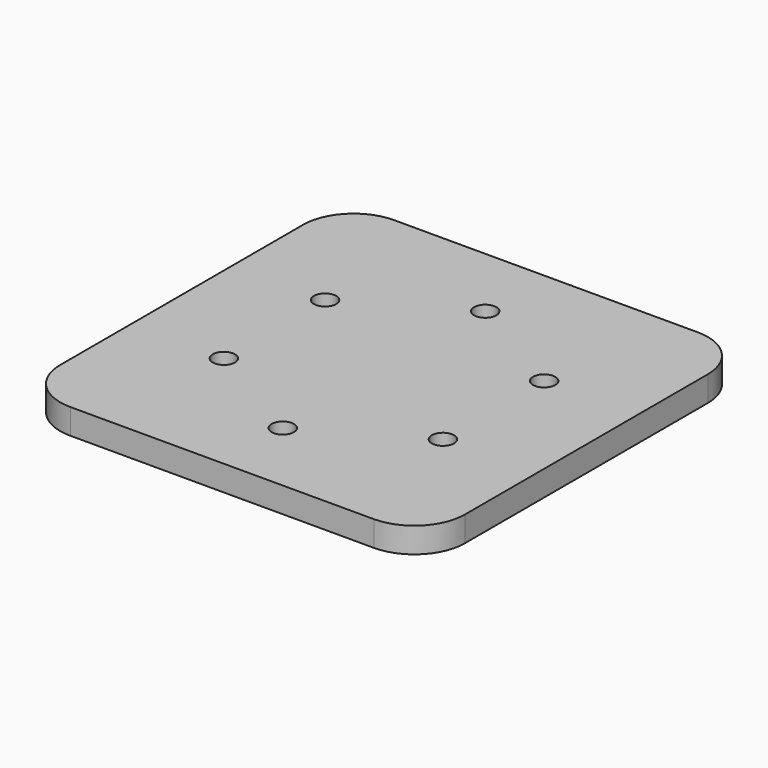
from build123d import *

# Parameters (mm, degrees)
F0_W     = 80
F0_H     = 80
F1_DEPTH = 5
F3_D     = 4.4
F4_R     = 10


with BuildPart() as f1:
    # F0 (on Top) → F1 (new body)
    with BuildSketch(Plane.XY):
        Rectangle(F0_W, F0_H)
    extrude(amount=F1_DEPTH)

    # F3 (through all)
    with Locations(Plane.XY.offset(5)):
        with Locations((0, 25), (21.650635, 12.5), (21.650635, -12.5), (0, -25), (-21.650635, -12.5), (-21.650635, 12.5)):
            Hole(F3_D / 2)

    # F4
    f4_edges = [f1.edges().sort_by_distance(p)[0] for p in [
        (40, -40, 2.5),
        (40, 40, 2.5),
        (-40, -40, 2.5),
        (-40, 40, 2.5),
    ]]
    fillet(f4_edges, radius=F4_R)


solid = f1.part
